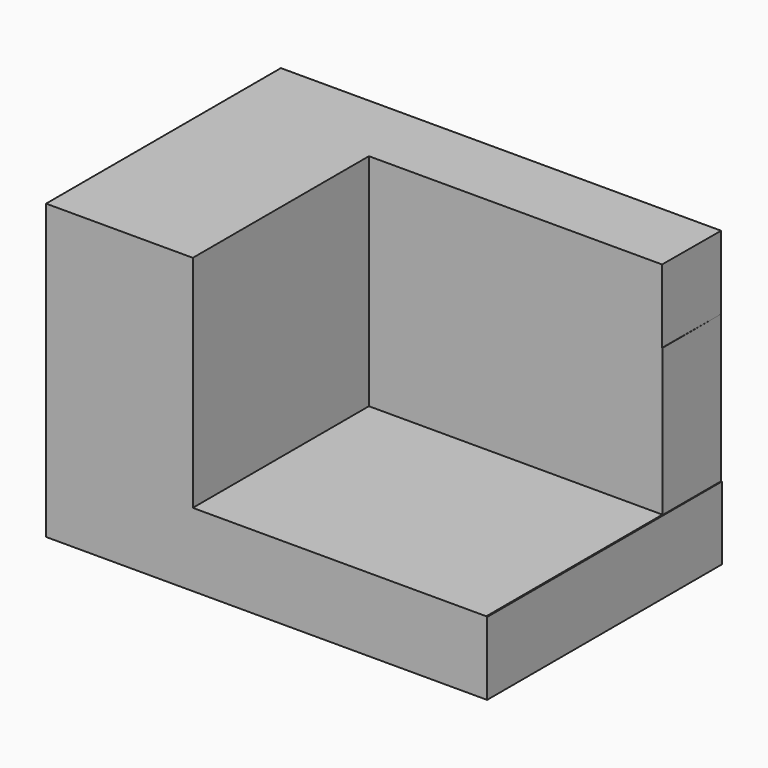
from build123d import *

# Parameters (mm, degrees)
F3_DEPTH = 25.4
F4_DEPTH = 38.1
F5_DEPTH = 25.4


with BuildPart() as f3:
    # F0 (on Front) → F3 (new body)
    with BuildSketch(Plane.XZ):
        Polygon((0, 25.4), (0, 0), (38.171803, 0), (38.171803, 6.314098), (12.7, 6.314098), (12.7, 19.05), (12.7, 25.4), align=None)
    extrude(amount=-F3_DEPTH)

    # F1 (on Right) → F4 (join)
    with BuildSketch(Plane.YZ):
        Polygon((0, 6.35), (0, 0), (25.4, 0), (25.4, 19.05), (19.05, 19.05), (19.05, 6.35), align=None)
    extrude(amount=F4_DEPTH)

    # F2 (on Top) → F5 (join)
    with BuildSketch(Plane.XY):
        Polygon((0, 25.4), (0, 0), (12.673074, 0), (12.673074, 19.05), (38.073074, 19.05), (38.1, 25.4), align=None)
    extrude(amount=F5_DEPTH)


solid = f3.part
